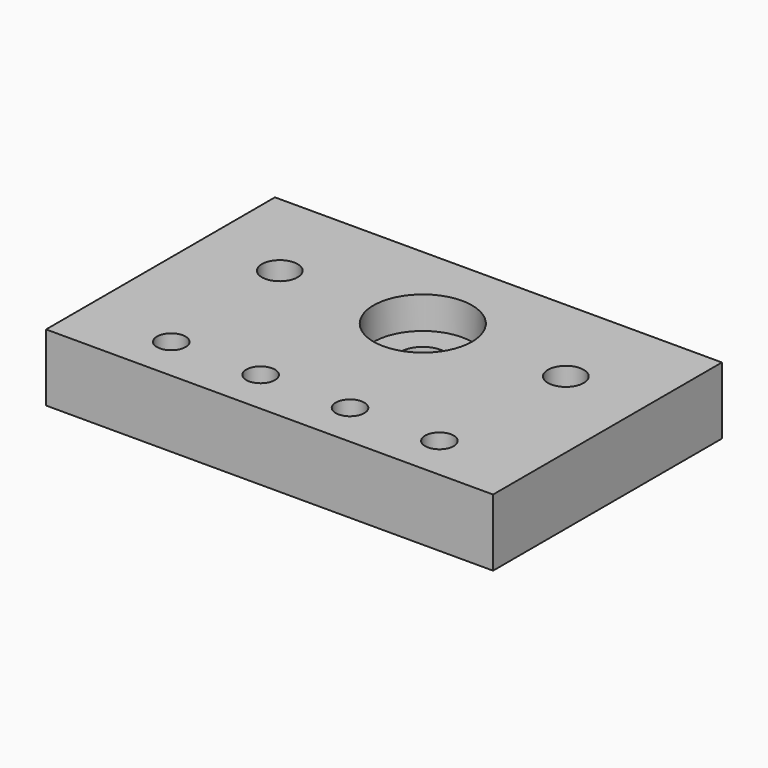
from build123d import *

# Parameters (mm, degrees)
SKETCH_W        = 100
SKETCH_H        = 64
SKETCH_R        = 5
SKETCH_R_2      = 3.2
SKETCH_R_3      = 4
PAD_DEPTH       = 15
SKETCH001_R     = 11.02
POCKET_DEPTH    = 7.2
SKETCH002_R     = 6
POCKET001_DEPTH = 7
SKETCH003_R     = 3.2
POCKET002_DEPTH = 15


with BuildPart() as part:
    # Sketch → Pad (new body)
    with BuildSketch(Plane.XY):
        with Locations((50, 32)):
            Rectangle(SKETCH_W, SKETCH_H)
        with Locations((50, 42.85)):
            Circle(SKETCH_R, mode=Mode.SUBTRACT)
        with Locations((20, 10)):
            Circle(SKETCH_R_2, mode=Mode.SUBTRACT)
        with Locations((80, 10)):
            Circle(SKETCH_R_2, mode=Mode.SUBTRACT)
        with Locations((82, 42.85)):
            Circle(SKETCH_R_3, mode=Mode.SUBTRACT)
        with Locations((18, 42.85)):
            Circle(SKETCH_R_3, mode=Mode.SUBTRACT)
    extrude(amount=PAD_DEPTH)

    # Sketch001 (on Face11 of Pad) → Pocket (cut)
    with BuildSketch(Plane.XY.offset(15)):
        with Locations((50, 42.85)):
            Circle(SKETCH001_R)
    extrude(amount=-POCKET_DEPTH, mode=Mode.SUBTRACT)

    # Sketch002 (on Face4 of Pocket) → Pocket001 (cut)
    with BuildSketch(Plane(origin=(0, 0, 0), x_dir=(1, 0, 0), z_dir=(0, 0, -1))):
        with Locations((20, -10)):
            Circle(SKETCH002_R)
        with Locations((80, -10)):
            Circle(SKETCH002_R)
        with Locations((40, -10)):
            Circle(SKETCH002_R)
        with Locations((60, -10)):
            Circle(SKETCH002_R)
    extrude(amount=-POCKET001_DEPTH, mode=Mode.SUBTRACT)

    # Sketch003 (on Face5 of Pocket001) → Pocket002 (cut)
    with BuildSketch(Plane.XY.offset(15)):
        with Locations((40, 10)):
            Circle(SKETCH003_R)
        with Locations((60, 10)):
            Circle(SKETCH003_R)
    extrude(amount=-POCKET002_DEPTH, mode=Mode.SUBTRACT)


solid = part.part
